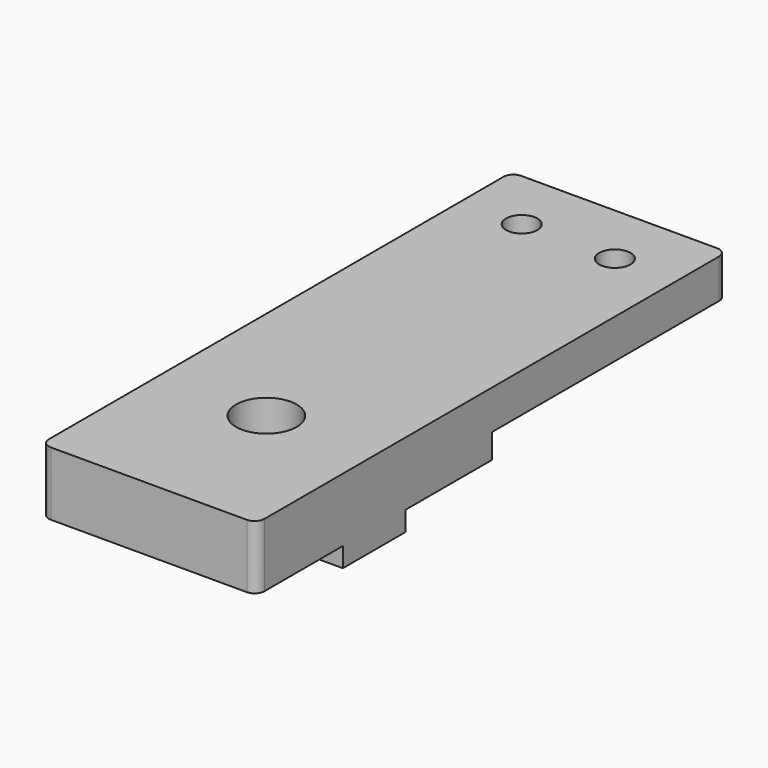
from build123d import *

# Parameters (mm, degrees)
SKETCH_W        = 22
SKETCH_H        = 60
PAD_DEPTH       = 4
SKETCH001_W     = 22
SKETCH001_H     = 30
PAD001_DEPTH    = 2.5
SKETCH002_W     = 7
SKETCH002_H     = 8
PAD002_DEPTH    = 2
SKETCH003_R     = 3.1
POCKET_DEPTH    = 6.501
SKETCH004_R     = 1.6
POCKET001_DEPTH = 8.501
FILLET_R        = 1


with BuildPart() as part:
    # Sketch → Pad (new body)
    with BuildSketch(Plane.XY):
        with Locations((0, 15)):
            Rectangle(SKETCH_W, SKETCH_H)
    extrude(amount=PAD_DEPTH)

    # Sketch001 (on Face5 of Pad) → Pad001 (join)
    with BuildSketch(Plane(origin=(0, 0, 0), x_dir=(1, 0, 0), z_dir=(0, 0, -1))):
        Rectangle(SKETCH001_W, SKETCH001_H)
    extrude(amount=PAD001_DEPTH)

    # Sketch002 (on Face5 of Pad001) → Pad002 (join)
    with BuildSketch(Plane(origin=(0, 0, -2.5), x_dir=(1, 0, 0), z_dir=(0, 0, -1))):
        with Locations((-7.5, 0)):
            Rectangle(SKETCH002_W, SKETCH002_H)
        with Locations((7.5, 0)):
            Rectangle(SKETCH002_W, SKETCH002_H)
    extrude(amount=PAD002_DEPTH)

    # Sketch003 (on Face5 of Pad002) → Pocket (cut, through all)
    with BuildSketch(Plane(origin=(0, 0, -2.5), x_dir=(1, 0, 0), z_dir=(0, 0, -1))):
        Circle(SKETCH003_R)
    extrude(amount=-POCKET_DEPTH, mode=Mode.SUBTRACT)

    # Sketch004 (on Face5 of Pocket) → Pocket001 (cut, through all)
    with BuildSketch(Plane.XY.offset(4)):
        with Locations((-4.75, 38.5)):
            Circle(SKETCH004_R)
        with Locations((4.75, 38.5)):
            Circle(SKETCH004_R)
    extrude(amount=-POCKET001_DEPTH, mode=Mode.SUBTRACT)

    # Fillet
    fillet_edges = [part.edges().sort_by_distance(p)[0] for p in [
        (-11, -15, 0.75),
        (11, -15, 0.75),
        (-11, 45, 2),
        (11, 45, 2),
    ]]
    fillet(fillet_edges, radius=FILLET_R)


solid = part.part
